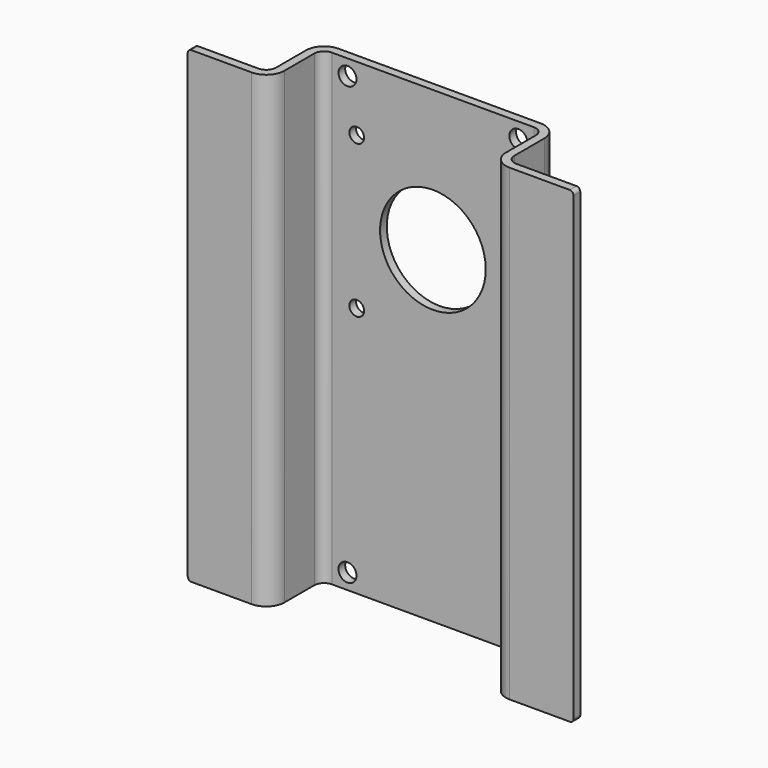
from build123d import *

# Parameters (mm, degrees)
F1_DEPTH = 95.25
F2_R     = 1.98374
F3_R     = 3.69316
F4_R     = 0.762
F5_R     = 1.8288
F6_DEPTH = 1.70942
F7_R     = 10.751496
F7_R_2   = 1.5
F8_DEPTH = 1.70942


with BuildPart() as f1:
    # F0 (on Top) → F1 (new body)
    with BuildSketch(Plane.XY):
        Polygon((0, -13.29058), (0, 0), (45.08116, 0), (45.08116, -13.29058), (61.79058, -13.29058), (61.79058, -11.58116), (46.79058, -11.58116), (46.79058, 1.70942), (-1.70942, 1.70942), (-1.70942, -11.58116), (-16.70942, -11.58116), (-16.70942, -13.29058), align=None)
    extrude(amount=F1_DEPTH)

    # F2
    f2_edges = [f1.edges().sort_by_distance(p)[0] for p in [
        (0, 0, 47.625),
        (-1.70942, -11.58116, 47.625),
        (45.08116, 0, 47.625),
        (46.79058, -11.58116, 47.625),
    ]]
    fillet(f2_edges, radius=F2_R)

    # F3
    f3_edges = [f1.edges().sort_by_distance(p)[0] for p in [
        (0, -13.29058, 47.625),
        (-1.70942, 1.70942, 47.625),
        (46.79058, 1.70942, 47.625),
        (45.08116, -13.29058, 47.625),
    ]]
    fillet(f3_edges, radius=F3_R)

    # F4
    f4_edges = [f1.edges().sort_by_distance(p)[0] for p in [
        (-16.70942, -12.43587, 0),
        (-16.70942, -12.43587, 95.25),
        (61.79058, -12.43587, 0),
        (61.79058, -12.43587, 95.25),
    ]]
    fillet(f4_edges, radius=F4_R)

    # F5 (on face) → F6 (cut, through all)
    with BuildSketch(Plane.XZ):
        with Locations((5.15874, 92.075)):
            Circle(F5_R)
        with Locations((5.15874, 3.175)):
            Circle(F5_R)
        with Locations((39.92242, 92.075)):
            Circle(F5_R)
        with Locations((39.92242, 3.175)):
            Circle(F5_R)
    extrude(amount=-F6_DEPTH, mode=Mode.SUBTRACT)

    # F7 (on face) → F8 (cut, through all)
    with BuildSketch(Plane.XZ):
        with Locations((22.54058, 66.603258)):
            Circle(F7_R)
        with Locations((38.040574, 82.103252)):
            Circle(F7_R_2)
        with Locations((38.040574, 51.103263)):
            Circle(F7_R_2)
        with Locations((7.040586, 51.103263)):
            Circle(F7_R_2)
        with Locations((7.040586, 82.103252)):
            Circle(F7_R_2)
    extrude(amount=-F8_DEPTH, mode=Mode.SUBTRACT)


solid = f1.part
